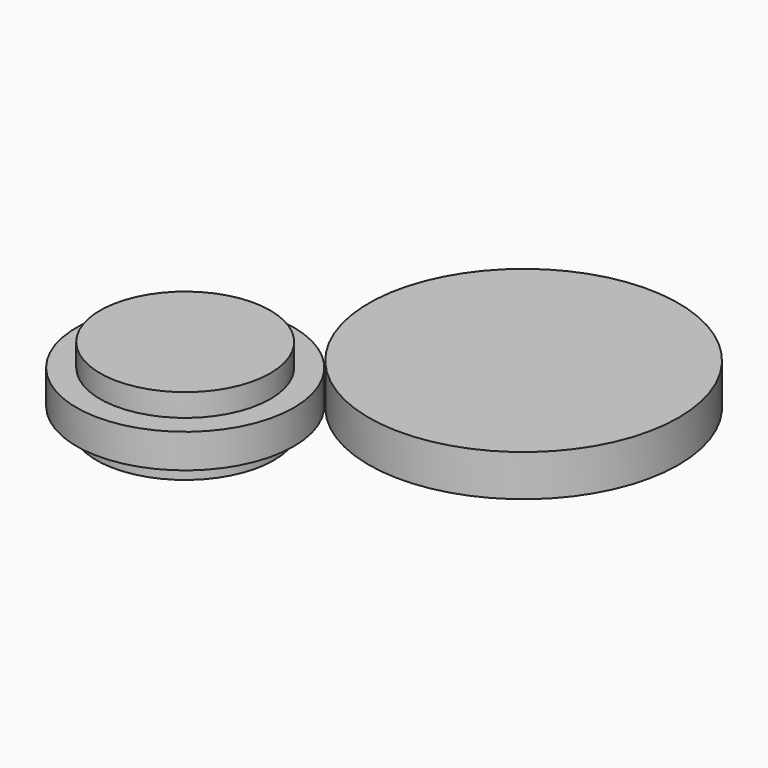
from build123d import *

# Parameters (mm, degrees)
F0_R     = 7.309247
F1_DEPTH = 2.286
F2_R     = 5.726862
F3_DEPTH = 3.81
F4_R     = 5.959125
F5_DEPTH = 1.27
F6_R     = 10.423993
F7_DEPTH = 2.794


with BuildPart() as f1:
    # F0 (on Top) → F1 (new body)
    with BuildSketch(Plane.XY):
        Circle(F0_R)
    extrude(amount=F1_DEPTH)

    # F2 (on Top) → F3 (join)
    with BuildSketch(Plane.XY):
        Circle(F2_R)
    extrude(amount=F3_DEPTH)

    # F4 (on Top) → F5 (join)
    with BuildSketch(Plane.XY):
        Circle(F4_R)
    extrude(amount=-F5_DEPTH)


with BuildPart() as f7:
    # F6 (on Top) → F7 (new body)
    with BuildSketch(Plane.XY):
        with Locations((13.98671, 10.978816)):
            Circle(F6_R)
    extrude(amount=F7_DEPTH)


solid = Compound([f1.part, f7.part])
